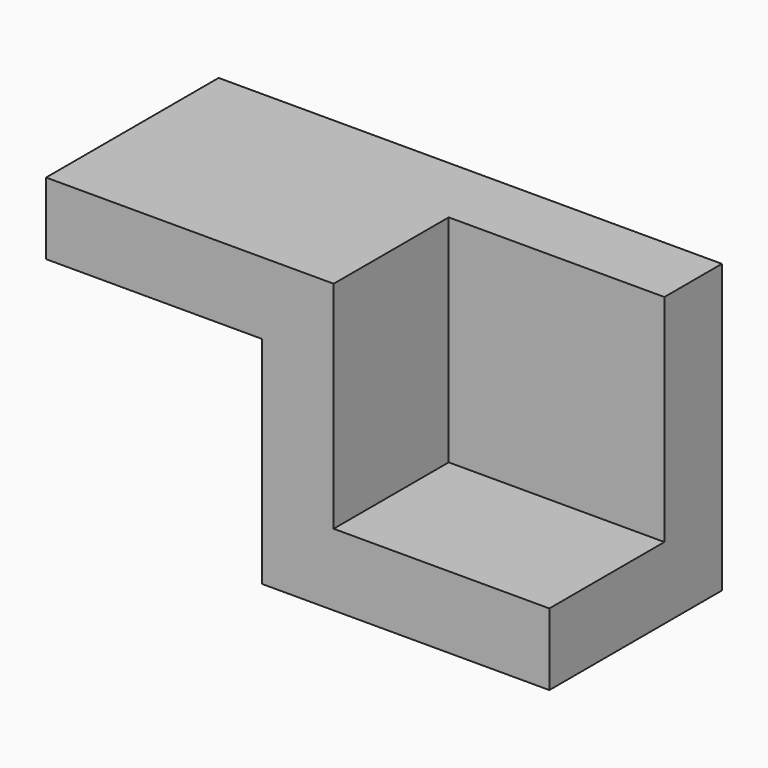
from build123d import *

# Parameters (mm, degrees)
F0_W     = 40
F0_H     = 30
F1_DEPTH = 40
F2_W     = 30
F2_H     = 20
F3_DEPTH = 30
F4_W     = 30
F4_H     = 30
F5_DEPTH = 10


with BuildPart() as f1:
    # F0 (on Top) → F1 (new body)
    with BuildSketch(Plane.XY):
        with Locations((20, 15)):
            Rectangle(F0_W, F0_H)
    extrude(amount=F1_DEPTH)

    # F2 (on face) → F3 (cut)
    with BuildSketch(Plane.XY.offset(40)):
        with Locations((25, 10)):
            Rectangle(F2_W, F2_H)
    extrude(amount=-F3_DEPTH, mode=Mode.SUBTRACT)

    # F4 (on face) → F5 (join)
    with BuildSketch(Plane.XY.offset(40)):
        with Locations((-15, 15)):
            Rectangle(F4_W, F4_H)
    extrude(amount=-F5_DEPTH)


solid = f1.part
